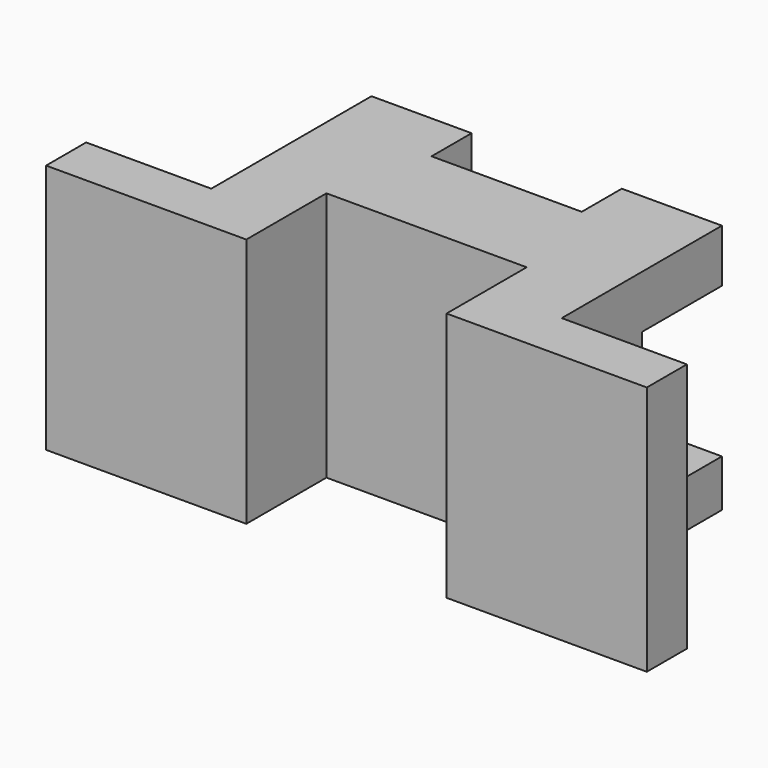
from build123d import *

# Parameters (mm, degrees)
F1_DEPTH = 50
F2_W     = 19.9999988079
F2_H     = 30
F3_DEPTH = 70


with BuildPart() as f1:
    # F0 (on Top) → F1 (new body)
    with BuildSketch(Plane.XY):
        Polygon((-48.3720720015, 10), (-48.3720720015, 0), (-8.3720720015, 0), (-8.3720720015, 20), (31.6279279985, 20), (31.6279279985, 0), (71.6279279985, 0), (71.6279279985, 10), (46.6279279985, 10), (46.6279279985, 50), (26.6279279985, 50), (26.6279279985, 40), (-3.3720720015, 40), (-3.3720720015, 50), (-23.3720720015, 50), (-23.3720720015, 10), align=None)
    extrude(amount=F1_DEPTH)

    # F2 (on face) → F3 (cut)
    with BuildSketch(Plane.YZ.offset(46.6279279985)):
        with Locations((40.000000596, 24.4267614186)):
            Rectangle(F2_W, F2_H)
    extrude(amount=-F3_DEPTH, mode=Mode.SUBTRACT)


solid = f1.part
